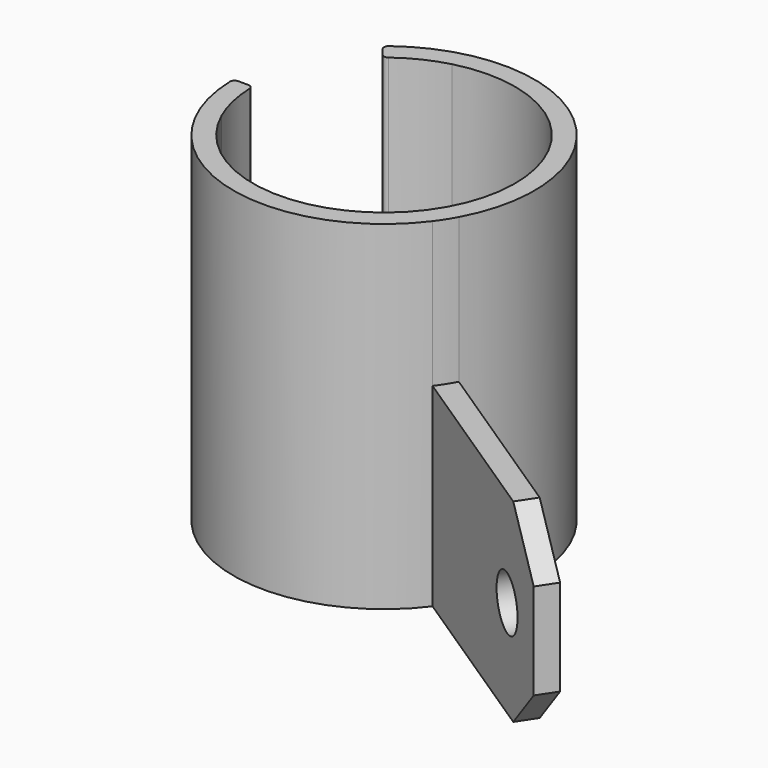
from build123d import *

# Parameters (mm, degrees)
F1_DEPTH = 34.925
F2_DEPTH = 2.0574
F3_DEPTH = 19.9898
F5_DEPTH = 25.4
F6_R     = 2.7432
F7_DEPTH = 6.35


with BuildPart() as f1:
    # F0 (on Top) → F1 (new body)
    with BuildSketch(Plane.XY):
        with BuildLine():
            ThreePointArc((-12.3453600693, -5.4627909314), (-13.1573816932, -3.0221361616), (-13.4917542774, -0.4717695609))
            ThreePointArc((-13.4917542774, -0.4717695609), (-13.6407310124, -0.1371936881), (-13.9803086533, 0))
            Line((-13.9803086533, 0), (-15.0031849319, 0))
            ThreePointArc((-15.0031849319, 0), (-15.3544396488, -0.1488568693), (-15.4917786026, -0.5047729485))
            ThreePointArc((-15.4917786026, -0.5047729485), (-4.6469501431, -14.7870164119), (12.418172291, -9.2757208319))
            ThreePointArc((12.418172291, -9.2757208319), (13.0538627177, -8.357431911), (13.6217786378, -7.395751939))
            ThreePointArc((13.6217786378, -7.395751939), (10.0950215904, 11.7618254999), (-9.3758099768, 12.3427787503))
            ThreePointArc((-9.3758099768, 12.3427787503), (-9.5654748501, 12.0117719837), (-9.4595485787, 11.645277961))
            Line((-9.4595485787, 11.645277961), (-8.8146223253, 10.8513346324))
            ThreePointArc((-8.8146223253, 10.8513346324), (-8.4940297415, 10.6742598531), (-8.140406046, 10.7695770301))
            ThreePointArc((-8.140406046, 10.7695770301), (-5.8949637992, 12.1449331742), (-3.4252504313, 13.0582410563))
            ThreePointArc((-3.4252504313, 13.0582410563), (12.1628613148, -5.8578839727), (-12.3453600693, -5.4627909314))
        make_face()
    extrude(amount=F1_DEPTH)

    # F0 (on Top) → F2 (join)
    with BuildSketch(Plane.XY):
        with BuildLine():
            Line((-10.812776349, -4.9974023539), (-12.3453600693, -5.4627909314))
            ThreePointArc((-12.3453600693, -5.4627909314), (12.1628613148, -5.8578839727), (-3.4252504313, 13.0582410563))
            Line((-3.4252504313, 13.0582410563), (-2.6983841205, 11.5607179889))
            ThreePointArc((-2.6983841205, 11.5607179889), (-2.4776784158, 11.3371662815), (-2.1665031819, 11.294080926))
            ThreePointArc((-2.1665031819, 11.294080926), (10.3351994601, -5.0431787713), (-10.2356285878, -5.2423188965))
            ThreePointArc((-10.2356285878, -5.2423188965), (-10.4797694006, -5.0151537509), (-10.812776349, -4.9974023539))
        make_face()
    extrude(amount=F2_DEPTH)

    # F0 (on Top) → F3 (join)
    with BuildSketch(Plane.XY):
        with BuildLine():
            ThreePointArc((13.6217786378, -7.395751939), (13.0538627177, -8.357431911), (12.418172291, -9.2757208319))
            Line((12.418172291, -9.2757208319), (34.5335465265, -23.8959513212))
            Line((34.5335465265, -23.8959513212), (35.7646481522, -22.033718493))
            Line((35.7646481522, -22.033718493), (13.6492739167, -7.4134880037))
            Line((13.6492739167, -7.4134880037), (13.6217786378, -7.395751939))
        make_face()
    extrude(amount=F3_DEPTH)

    # F4 (on face) → F5 (cut)
    with BuildSketch(Plane(origin=(-0.4904917501, -0.7419451164, 0), x_dir=(0.8341915273, -0.551474837, 0), z_dir=(-0.551474837, -0.8341915273, 0))):
        Polygon((41.9856077785, 5.0546), (36.6286821663, 0), (41.9856077785, 0), align=None)
        Polygon((41.9856077785, 19.9898), (36.6286821663, 19.9898), (41.9856077785, 14.9331064895), align=None)
    extrude(amount=-F5_DEPTH, mode=Mode.SUBTRACT)

    # F6 (on face) → F7 (cut)
    with BuildSketch(Plane(origin=(-0.4904917501, -0.7419451164, 0), x_dir=(0.8341915273, -0.551474837, 0), z_dir=(-0.551474837, -0.8341915273, 0))):
        with Locations((35.0006077785, 9.9949)):
            Circle(F6_R)
    extrude(amount=-F7_DEPTH, mode=Mode.SUBTRACT)


solid = f1.part
